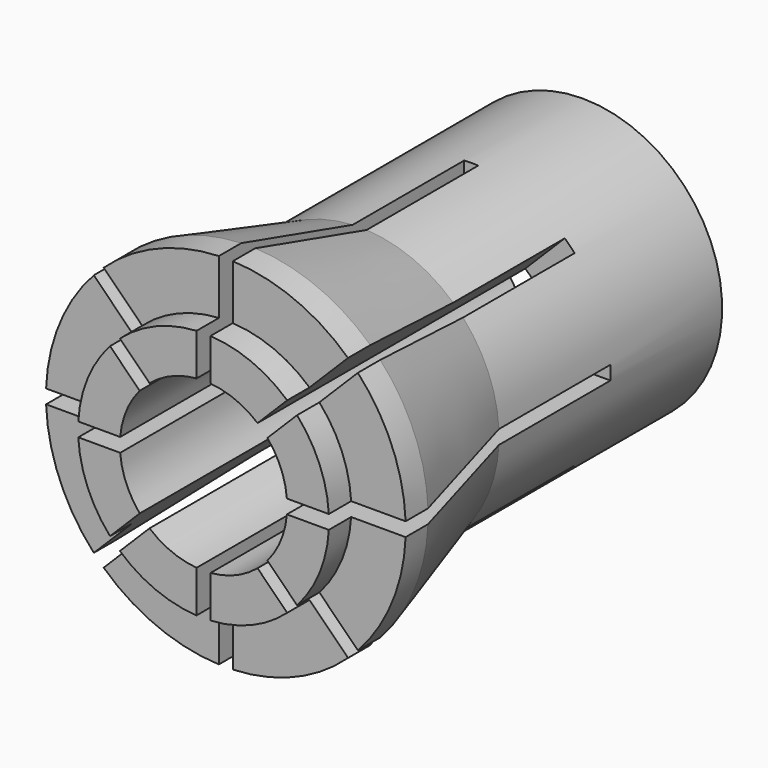
from build123d import *

# Parameters (mm, degrees)
F3_DEPTH = 12


with BuildPart() as f1:
    # F0 (on Right) → F1 (revolve)
    with BuildSketch(Plane.YZ):
        Polygon((0, 3), (0, 5), (-10, 5), (-15, 6.452284), (-16, 6.452284), (-16, 4.5), (-17, 4.5), (-17, 3), align=None)
    revolve(axis=Axis((0, -8.5, 0), (0, 1, 0)))

    # F2 (on face) → F3 (cut)
    with BuildSketch(Plane.XZ.offset(17)):
        Polygon((-0.603553, 0.25), (-0.25, 0.25), (-0.25, 0.603553), (-4.419417, 4.772971), (-4.772971, 4.419417), align=None)
        Polygon((-0.603553, -0.25), (-0.353553, 0), (-0.603553, 0.25), (-6.5, 0.25), (-6.5, -0.25), align=None)
        Polygon((-0.25, -0.603553), (-0.25, -0.25), (-0.603553, -0.25), (-4.772971, -4.419417), (-4.419417, -4.772971), align=None)
        Polygon((-0.25, 6.5), (-0.25, 0.603553), (0, 0.353553), (0.25, 0.603553), (0.25, 6.5), align=None)
        Polygon((0, -0.353553), (-0.25, -0.603553), (-0.25, -6.5), (0.25, -6.5), (0.25, -0.603553), align=None)
        Polygon((0.25, 0.603553), (0.25, 0.25), (0.603553, 0.25), (4.772971, 4.419417), (4.419417, 4.772971), align=None)
        Polygon((0.603553, 0.25), (0.353553, 0), (0.603553, -0.25), (6.5, -0.25), (6.5, 0.25), align=None)
        Polygon((0.603553, -0.25), (0.25, -0.25), (0.25, -0.603553), (4.419417, -4.772971), (4.772971, -4.419417), align=None)
    extrude(amount=-F3_DEPTH, mode=Mode.SUBTRACT)


solid = f1.part
